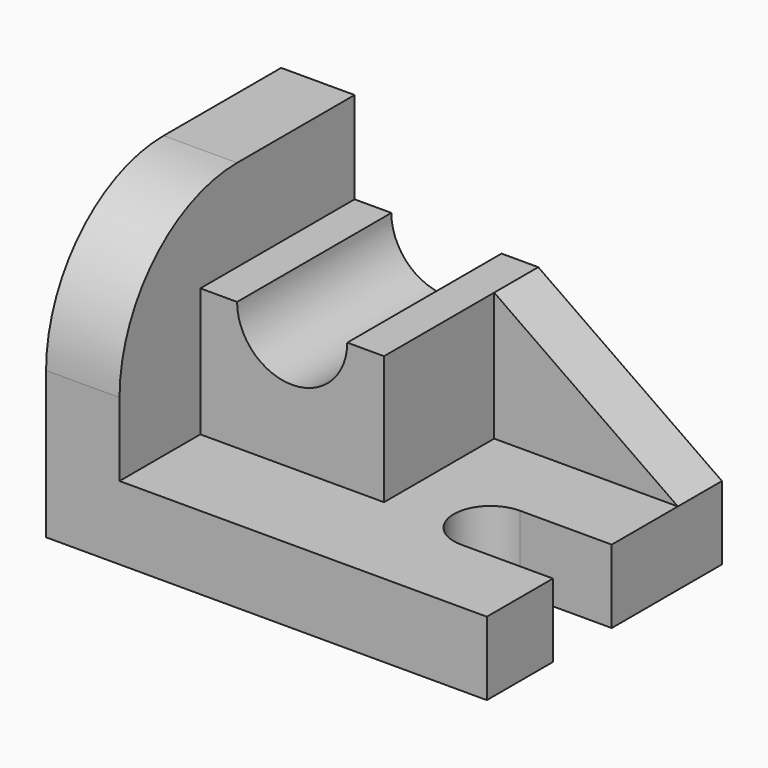
from build123d import *

# Parameters (mm, degrees)
F0_W     = 960
F0_H     = 640
F1_DEPTH = 160
F3_DEPTH = 160
F5_DEPTH = 120
F7_DEPTH = 420
F9_DEPTH = 160


with BuildPart() as f1:
    # F0 (on Top) → F1 (new body)
    with BuildSketch(Plane.XY):
        with Locations((-431.9713334739, 289.2694023252)):
            Rectangle(F0_W, F0_H)
    extrude(amount=F1_DEPTH)

    # F2 (on face) → F3 (join)
    with BuildSketch(Plane(origin=(-911.9713334739, 0, 0), x_dir=(0, -1, 0), z_dir=(-1, 0, 0))):
        with BuildLine():
            Line((-609.2694023252, 640), (-609.2694023252, 160))
            Line((-609.2694023252, 160), (30.7305976748, 160))
            Line((30.7305976748, 160), (30.7305976748, 320))
            ThreePointArc((30.7305976748, 320), (-62.9952323455, 546.2741699797), (-289.2694023252, 640))
            Line((-289.2694023252, 640), (-609.2694023252, 640))
        make_face()
    extrude(amount=-F3_DEPTH)

    # F4 (on face) → F5 (join)
    with BuildSketch(Plane(origin=(0, 609.2694023252, 0), x_dir=(-1, 0, 0), z_dir=(0, 1, 0))):
        Polygon((-48.0286665261, 160), (351.9713334739, 160), (351.9713334739, 440), align=None)
    extrude(amount=-F5_DEPTH)

    # F6 (on face) → F7 (join)
    with BuildSketch(Plane(origin=(0, 609.2694023252, 0), x_dir=(-1, 0, 0), z_dir=(0, 1, 0))):
        with BuildLine():
            Line((431.9713334739, 440), (351.9713334739, 440))
            Line((351.9713334739, 440), (351.9713334739, 160))
            Line((351.9713334739, 160), (751.9713334739, 160))
            Line((751.9713334739, 160), (751.9713334739, 440))
            Line((751.9713334739, 440), (671.9713334739, 440))
            ThreePointArc((671.9713334739, 440), (551.9713334739, 320), (431.9713334739, 440))
        make_face()
    extrude(amount=-F7_DEPTH)

    # F8 (on face) → F9 (cut)
    with BuildSketch(Plane.XY.offset(160)):
        with BuildLine():
            Line((-151.9713334739, 149.2694023252), (48.0286665261, 149.2694023252))
            Line((48.0286665261, 149.2694023252), (48.0286665261, 309.2694023252))
            Line((48.0286665261, 309.2694023252), (-151.9713334739, 309.2694023252))
            ThreePointArc((-151.9713334739, 309.2694023252), (-231.9713334739, 229.2694023252), (-151.9713334739, 149.2694023252))
        make_face()
    extrude(amount=-F9_DEPTH, mode=Mode.SUBTRACT)


solid = f1.part
